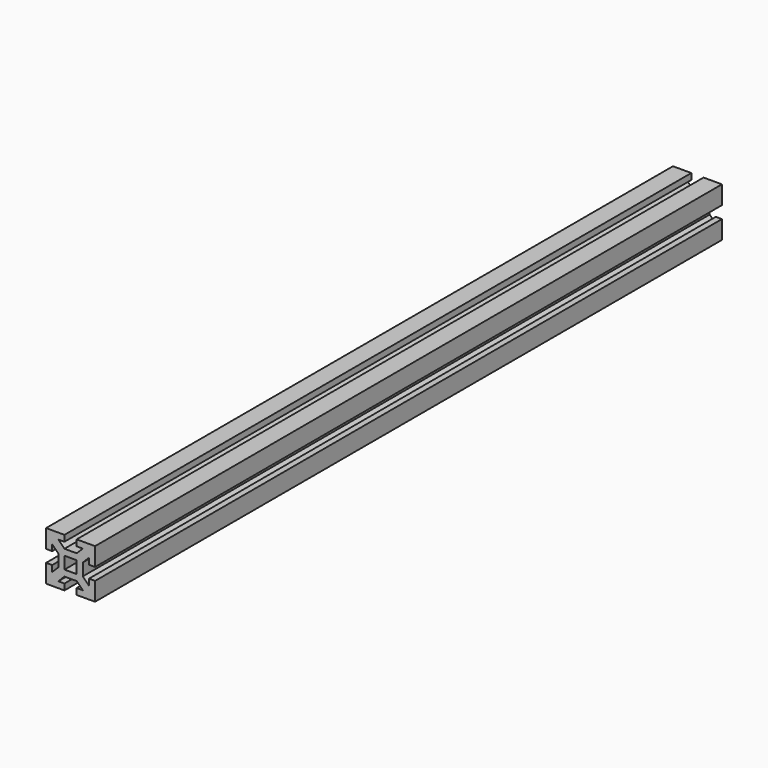
from build123d import *

# Parameters (mm, degrees)
F1_DEPTH = 640


with BuildPart() as f1:
    # F0 (on Front) → F1 (new body)
    with BuildSketch(Plane.XZ):
        Polygon((20, 5), (20, 20), (5, 20), (5, 15), (10, 15), (5, 10), (-5, 10), (-10, 15), (-5, 15), (-5, 20), (-20, 20), (-20, 5), (-15, 5), (-15, 10), (-10, 5), (-10, -5), (-15, -10), (-15, -5), (-20, -5), (-20, -20), (-5, -20), (-5, -15), (-10, -15), (-5, -10), (5, -10), (10, -15), (5, -15), (5, -20), (20, -20), (20, -5), (15, -5), (15, -10), (10, -5), (10, 5), (15, 10), (15, 5), align=None)
        Polygon((-5, 0), (-5, 5), (0, 5), (5, 5), (5, 0), (5, -5), (0, -5), (-5, -5), align=None, mode=Mode.SUBTRACT)
    extrude(amount=F1_DEPTH)


solid = f1.part
